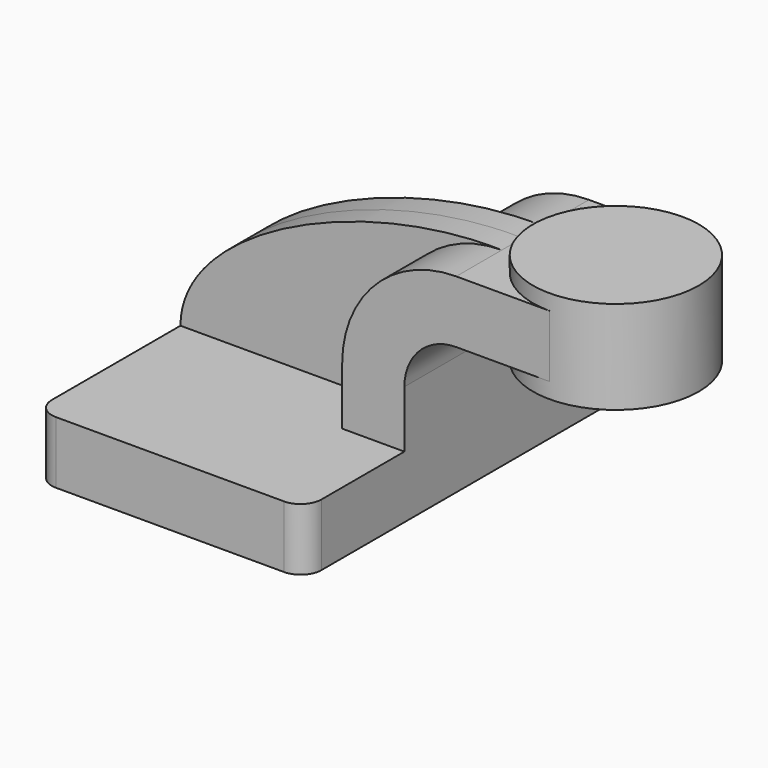
from build123d import *

# Parameters (mm, degrees)
F1_DEPTH = 63.5
F2_DEPTH = 7.9375
F0_W     = 25.4
F0_H     = 19.05
F3_DEPTH = 25.4
F5_R     = 6.35


with BuildPart() as f1:
    # F0 (on Front) → F1 (new body, symmetric)
    with BuildSketch(Plane.XZ):
        Polygon((41.275, -9.525), (41.275, 9.525), (22.225, 9.525), (-41.275, 9.525), (-41.275, -9.525), align=None)
    extrude(amount=F1_DEPTH, both=True)

    # F0 (on Front) → F2 (join, symmetric)
    with BuildSketch(Plane.XZ):
        with BuildLine():
            Line((-41.275, 9.525), (22.225, 9.525))
            Line((22.225, 9.525), (22.225, 27.0002))
            ThreePointArc((22.225, 27.0002), (32.4542956671, 51.6959043329), (57.15, 61.9252))
            add(Edge.make_bspline(
                [(-41.275, 9.525), (-41.1499068141, 37.8207266331), (14.1535438597, 63.0222931504), (57.15, 61.9252)],
                knots=[0, 0, 0, 0, 111.5045361635, 111.5045361635, 111.5045361635, 111.5045361635], degree=3))
        make_face()
    extrude(amount=F2_DEPTH, both=True)

    # F0 (on Front) → F3 (join, symmetric)
    with BuildSketch(Plane.XZ):
        with BuildLine():
            Line((22.225, 9.525), (41.275, 9.525))
            Line((41.275, 9.525), (41.275, 27.0002))
            ThreePointArc((41.275, 27.0002), (45.9246798487, 38.2255201513), (57.15, 42.8752))
            Line((57.15, 42.8752), (60.325, 42.8752))
            Line((60.325, 42.8752), (60.325, 61.9252))
            Line((60.325, 61.9252), (57.15, 61.9252))
            ThreePointArc((57.15, 61.9252), (32.4542956671, 51.6959043329), (22.225, 27.0002))
            Line((22.225, 27.0002), (22.225, 9.525))
        make_face()
        with Locations((73.025, 52.4002)):
            Rectangle(F0_W, F0_H)
    extrude(amount=F3_DEPTH, both=True)

    # F0 (on Front) → F4 (revolve)
    with BuildSketch(Plane.XZ):
        Polygon((85.725, 61.9252), (85.725, 42.8752), (85.725, 38.1), (111.125, 38.1), (111.125, 66.675), (85.725, 66.675), align=None)
    revolve(axis=Axis((85.725, 0, 52.3875), (0, 0, -1)))

    # F5
    f5_edges = [f1.edges().sort_by_distance(p)[0] for p in [
        (-41.275, -63.5, 0),
        (41.275, -63.5, 0),
        (-41.275, 63.5, 0),
        (41.275, 63.5, 0),
    ]]
    fillet(f5_edges, radius=F5_R)


solid = f1.part
